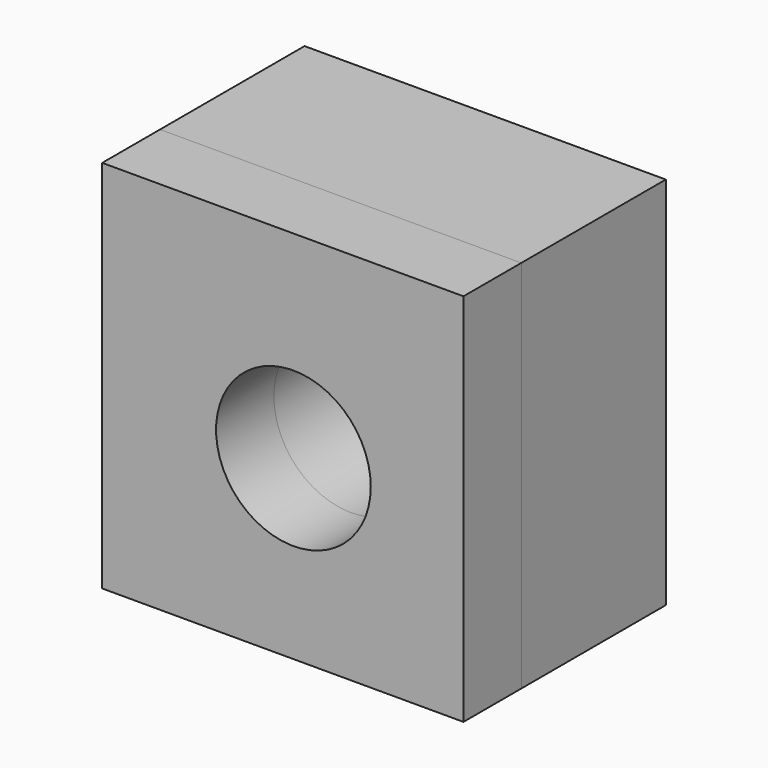
from build123d import *

# Parameters (mm, degrees)
F0_W      = 127
F0_H      = 131.728712
F0_R      = 27.1907
F1_DEPTH  = 63.5
F1_FACE_W = 127
F1_FACE_H = 131.728712
F1_FACE_R = 27.1907
F2_DEPTH  = 25.4


with BuildPart() as f1:
    # F0 (on Front) → F1 (new body)
    with BuildSketch(Plane.XZ):
        with Locations((-3.71542, 0)):
            Rectangle(F0_W, F0_H)
        with Locations((0, -3.707764)):
            Circle(F0_R, mode=Mode.SUBTRACT)
    extrude(amount=F1_DEPTH)


with BuildPart() as f2:
    # F1_face (on face) → F2 (new body)
    with BuildSketch(Plane(origin=(-4.314423, -63.5, 0.597769), x_dir=(1, 0, 0), z_dir=(0, -1, 0))):
        with Locations((0.599003, -0.597769)):
            Rectangle(F1_FACE_W, F1_FACE_H)
        with Locations((4.314423, -4.305533)):
            Circle(F1_FACE_R, mode=Mode.SUBTRACT)
    extrude(amount=F2_DEPTH)


solid = Compound([f1.part, f2.part])
